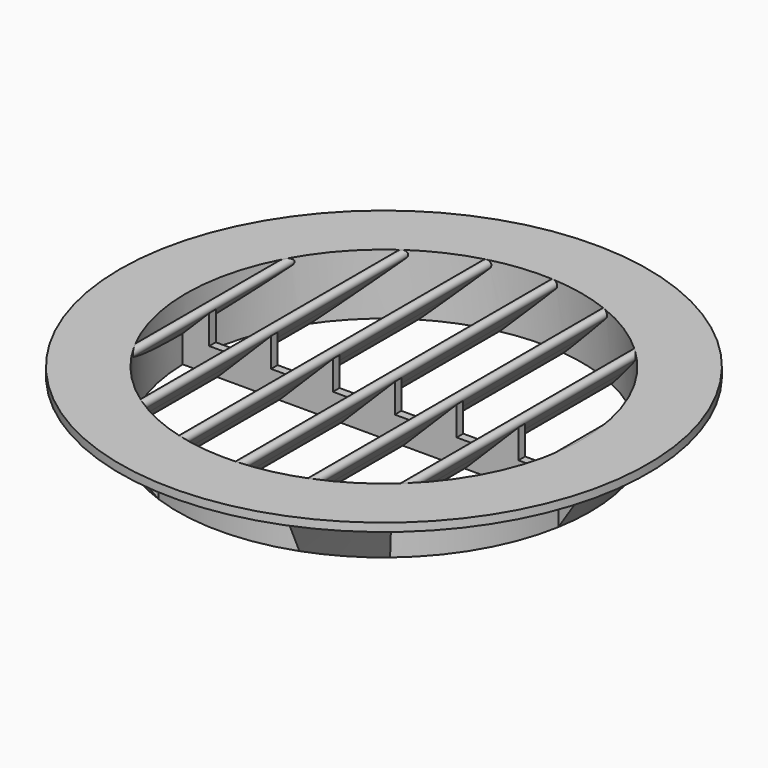
from build123d import *

# Parameters (mm, degrees)
F1_DEPTH      = 1
F2_DEPTH      = 100
F3_W          = 48
F3_H          = 14.7279220614
F8_ANGLE_BACK = 10
F8_ANGLE      = 20
F9_COUNT      = 6


with BuildPart() as f1:
    # F0 (on Front) → F1 (new body, symmetric)
    with BuildSketch(Plane.XZ):
        with BuildLine():
            ThreePointArc((-100, 0), (-100.9238795325, 0.6173165676), (-100.7071067812, 1.7071067812))
            Line((-100.7071067812, 1.7071067812), (-96.4142135624, 6))
            Line((-96.4142135624, 6), (-110.0245416164, 6))
            Line((-110.0245416164, 6), (-110.0245416164, 0))
            Line((-110.0245416164, 0), (-100, 0))
        make_face()
        with BuildLine():
            Line((-96.4142135624, 6), (-100.7071067812, 1.7071067812))
            ThreePointArc((-100.7071067812, 1.7071067812), (-100.9238795325, 0.6173165676), (-100, 0))
            ThreePointArc((-100, 0), (-99.6173165676, 0.0761204675), (-99.2928932188, 0.2928932188))
            Line((-99.2928932188, 0.2928932188), (-93.5857864376, 6))
            Line((-93.5857864376, 6), (-96.4142135624, 6))
        make_face()
        with BuildLine():
            ThreePointArc((-99.2928932188, 0.2928932188), (-99.6173165676, 0.0761204675), (-100, 0))
            Line((-100, 0), (-85, 0))
            ThreePointArc((-85, 0), (-85.9238795325, 0.6173165676), (-85.7071067812, 1.7071067812))
            Line((-85.7071067812, 1.7071067812), (-81.4142135624, 6))
            Line((-81.4142135624, 6), (-86.5649711575, 6))
            Line((-86.5649711575, 6), (-93.5857864376, 6))
            Line((-93.5857864376, 6), (-99.2928932188, 0.2928932188))
        make_face()
        with BuildLine():
            ThreePointArc((-85.7071067812, 1.7071067812), (-85.9238795325, 0.6173165676), (-85, 0))
            ThreePointArc((-85, 0), (-84.6173165676, 0.0761204675), (-84.2928932188, 0.2928932188))
            Line((-84.2928932188, 0.2928932188), (-78.5857864376, 6))
            Line((-78.5857864376, 6), (-81.4142135624, 6))
            Line((-81.4142135624, 6), (-85.7071067812, 1.7071067812))
        make_face()
        with BuildLine():
            ThreePointArc((-84.2928932188, 0.2928932188), (-84.6173165676, 0.0761204675), (-85, 0))
            Line((-85, 0), (-70, 0))
            ThreePointArc((-70, 0), (-70.9238795325, 0.6173165676), (-70.7071067812, 1.7071067812))
            Line((-70.7071067812, 1.7071067812), (-66.4142135624, 6))
            Line((-66.4142135624, 6), (-71.5649711575, 6))
            Line((-71.5649711575, 6), (-78.5857864376, 6))
            Line((-78.5857864376, 6), (-84.2928932188, 0.2928932188))
        make_face()
        with BuildLine():
            ThreePointArc((-70.7071067812, 1.7071067812), (-70.9238795325, 0.6173165676), (-70, 0))
            ThreePointArc((-70, 0), (-69.6173165676, 0.0761204675), (-69.2928932188, 0.2928932188))
            Line((-69.2928932188, 0.2928932188), (-63.5857864376, 6))
            Line((-63.5857864376, 6), (-66.4142135624, 6))
            Line((-66.4142135624, 6), (-70.7071067812, 1.7071067812))
        make_face()
        with BuildLine():
            ThreePointArc((-69.2928932188, 0.2928932188), (-69.6173165676, 0.0761204675), (-70, 0))
            Line((-70, 0), (-55, 0))
            ThreePointArc((-55, 0), (-55.9238795325, 0.6173165676), (-55.7071067812, 1.7071067812))
            Line((-55.7071067812, 1.7071067812), (-51.4142135624, 6))
            Line((-51.4142135624, 6), (-56.5649711575, 6))
            Line((-56.5649711575, 6), (-63.5857864376, 6))
            Line((-63.5857864376, 6), (-69.2928932188, 0.2928932188))
        make_face()
        with BuildLine():
            ThreePointArc((-55.7071067812, 1.7071067812), (-55.9238795325, 0.6173165676), (-55, 0))
            ThreePointArc((-55, 0), (-54.6173165676, 0.0761204675), (-54.2928932188, 0.2928932188))
            Line((-54.2928932188, 0.2928932188), (-48.5857864376, 6))
            Line((-48.5857864376, 6), (-51.4142135624, 6))
            Line((-51.4142135624, 6), (-55.7071067812, 1.7071067812))
        make_face()
        with BuildLine():
            ThreePointArc((-54.2928932188, 0.2928932188), (-54.6173165676, 0.0761204675), (-55, 0))
            Line((-55, 0), (-39.9999999915, 0))
            ThreePointArc((-39.9999999915, 0), (-40.9238795309, 0.6173165637), (-40.7071067812, 1.7071067812))
            Line((-40.7071067812, 1.7071067812), (-36.4142135624, 6))
            Line((-36.4142135624, 6), (-41.5649711575, 6))
            Line((-41.5649711575, 6), (-48.5857864376, 6))
            Line((-48.5857864376, 6), (-54.2928932188, 0.2928932188))
        make_face()
        with BuildLine():
            ThreePointArc((-40.7071067812, 1.7071067812), (-40.9238795309, 0.6173165637), (-39.9999999915, 0))
            ThreePointArc((-39.9999999915, 0), (-39.6173165637, 0.0761204691), (-39.2928932188, 0.2928932188))
            Line((-39.2928932188, 0.2928932188), (-33.5857864376, 6))
            Line((-33.5857864376, 6), (-36.4142135624, 6))
            Line((-36.4142135624, 6), (-40.7071067812, 1.7071067812))
        make_face()
        with BuildLine():
            ThreePointArc((-39.2928932188, 0.2928932188), (-39.6173165637, 0.0761204691), (-39.9999999915, 0))
            Line((-39.9999999915, 0), (-25.0000000006, 0))
            ThreePointArc((-25.0000000006, 0), (-25.9238795326, 0.6173165679), (-25.7071067812, 1.7071067812))
            Line((-25.7071067812, 1.7071067812), (-21.4142135624, 6))
            Line((-21.4142135624, 6), (-26.5649711575, 6))
            Line((-26.5649711575, 6), (-33.5857864376, 6))
            Line((-33.5857864376, 6), (-39.2928932188, 0.2928932188))
        make_face()
        with BuildLine():
            ThreePointArc((-24.2928932188, 0.2928932188), (-24.6173165679, 0.0761204674), (-25.0000000006, 0))
            Line((-25.0000000006, 0), (-10.0000000012, 0))
            ThreePointArc((-10.0000000012, 0), (-10.9238795327, 0.6173165682), (-10.7071067812, 1.7071067812))
            Line((-10.7071067812, 1.7071067812), (-6.4142135624, 6))
            Line((-6.4142135624, 6), (-11.5649711575, 6))
            Line((-11.5649711575, 6), (-18.5857864376, 6))
            Line((-18.5857864376, 6), (-24.2928932188, 0.2928932188))
        make_face()
        with BuildLine():
            ThreePointArc((-9.2928932188, 0.2928932188), (-9.6173165682, 0.0761204673), (-10.0000000012, 0))
            Line((-10.0000000012, 0), (4.9999999999, 0))
            ThreePointArc((4.9999999999, 0), (4.0761204675, 0.6173165677), (4.2928932188, 1.7071067812))
            Line((4.2928932188, 1.7071067812), (8.5857864376, 6))
            Line((8.5857864376, 6), (3.4350288425, 6))
            Line((3.4350288425, 6), (-3.5857864376, 6))
            Line((-3.5857864376, 6), (-9.2928932188, 0.2928932188))
        make_face()
        with BuildLine():
            ThreePointArc((-25.7071067812, 1.7071067812), (-25.9238795326, 0.6173165679), (-25.0000000006, 0))
            ThreePointArc((-25.0000000006, 0), (-24.6173165679, 0.0761204674), (-24.2928932188, 0.2928932188))
            Line((-24.2928932188, 0.2928932188), (-18.5857864376, 6))
            Line((-18.5857864376, 6), (-21.4142135624, 6))
            Line((-21.4142135624, 6), (-25.7071067812, 1.7071067812))
        make_face()
        with BuildLine():
            ThreePointArc((35.7071067812, 0.2928932188), (35.3826834226, 0.0761204635), (34.999999979, 0))
            Line((34.999999979, 0), (120.5326914787, 0))
            Line((120.5326914787, 0), (120.5326914787, 6))
            Line((120.5326914787, 6), (48.4350288425, 6))
            Line((48.4350288425, 6), (41.4142135624, 6))
            Line((41.4142135624, 6), (35.7071067812, 0.2928932188))
        make_face()
        with BuildLine():
            ThreePointArc((-10.7071067812, 1.7071067812), (-10.9238795327, 0.6173165682), (-10.0000000012, 0))
            ThreePointArc((-10.0000000012, 0), (-9.6173165682, 0.0761204673), (-9.2928932188, 0.2928932188))
            Line((-9.2928932188, 0.2928932188), (-3.5857864376, 6))
            Line((-3.5857864376, 6), (-6.4142135624, 6))
            Line((-6.4142135624, 6), (-10.7071067812, 1.7071067812))
        make_face()
        with BuildLine():
            ThreePointArc((5.7071067812, 0.2928932188), (5.3826834323, 0.0761204675), (4.9999999999, 0))
            Line((4.9999999999, 0), (19.9999999989, 0))
            ThreePointArc((19.9999999989, 0), (19.0761204673, 0.6173165682), (19.2928932188, 1.7071067812))
            Line((19.2928932188, 1.7071067812), (23.5857864376, 6))
            Line((23.5857864376, 6), (18.4350288425, 6))
            Line((18.4350288425, 6), (11.4142135624, 6))
            Line((11.4142135624, 6), (5.7071067812, 0.2928932188))
        make_face()
        with BuildLine():
            ThreePointArc((4.2928932188, 1.7071067812), (4.0761204675, 0.6173165677), (4.9999999999, 0))
            ThreePointArc((4.9999999999, 0), (5.3826834323, 0.0761204675), (5.7071067812, 0.2928932188))
            Line((5.7071067812, 0.2928932188), (11.4142135624, 6))
            Line((11.4142135624, 6), (8.5857864376, 6))
            Line((8.5857864376, 6), (4.2928932188, 1.7071067812))
        make_face()
        with BuildLine():
            ThreePointArc((34.2928932188, 1.7071067812), (34.0761204635, 0.6173165774), (34.999999979, 0))
            ThreePointArc((34.999999979, 0), (35.3826834226, 0.0761204635), (35.7071067812, 0.2928932188))
            Line((35.7071067812, 0.2928932188), (41.4142135624, 6))
            Line((41.4142135624, 6), (38.5857864376, 6))
            Line((38.5857864376, 6), (34.2928932188, 1.7071067812))
        make_face()
        with BuildLine():
            ThreePointArc((20.7071067812, 0.2928932188), (20.3826834318, 0.0761204673), (19.9999999989, 0))
            Line((19.9999999989, 0), (34.999999979, 0))
            ThreePointArc((34.999999979, 0), (34.0761204635, 0.6173165774), (34.2928932188, 1.7071067812))
            Line((34.2928932188, 1.7071067812), (38.5857864376, 6))
            Line((38.5857864376, 6), (33.4350288425, 6))
            Line((33.4350288425, 6), (26.4142135624, 6))
            Line((26.4142135624, 6), (20.7071067812, 0.2928932188))
        make_face()
        with BuildLine():
            ThreePointArc((19.2928932188, 1.7071067812), (19.0761204673, 0.6173165682), (19.9999999989, 0))
            ThreePointArc((19.9999999989, 0), (20.3826834318, 0.0761204673), (20.7071067812, 0.2928932188))
            Line((20.7071067812, 0.2928932188), (26.4142135624, 6))
            Line((26.4142135624, 6), (23.5857864376, 6))
            Line((23.5857864376, 6), (19.2928932188, 1.7071067812))
        make_face()
        Polygon((48.4350288425, 13.0208152802), (41.4142135624, 6), (48.4350288425, 6), align=None)
        Polygon((33.4350288425, 13.0208152802), (26.4142135624, 6), (33.4350288425, 6), align=None)
        Polygon((18.4350288425, 13.0208152802), (11.4142135624, 6), (18.4350288425, 6), align=None)
        Polygon((3.4350288425, 13.0208152802), (-3.5857864376, 6), (3.4350288425, 6), align=None)
        Polygon((-11.5649711575, 13.0208152802), (-18.5857864376, 6), (-11.5649711575, 6), align=None)
        Polygon((-26.5649711575, 13.0208152802), (-33.5857864376, 6), (-26.5649711575, 6), align=None)
        Polygon((-41.5649711575, 13.0208152802), (-48.5857864376, 6), (-41.5649711575, 6), align=None)
        Polygon((-56.5649711575, 13.0208152802), (-63.5857864376, 6), (-56.5649711575, 6), align=None)
        Polygon((-71.5649711575, 13.0208152802), (-78.5857864376, 6), (-71.5649711575, 6), align=None)
        Polygon((-86.5649711575, 13.0208152802), (-93.5857864376, 6), (-86.5649711575, 6), align=None)
    extrude(amount=F1_DEPTH, both=True)

    # F0 (on Front) → F2 (join, symmetric)
    with BuildSketch(Plane.XZ):
        with BuildLine():
            Line((-87.9791847198, 14.4350288425), (-96.4142135624, 6))
            Line((-96.4142135624, 6), (-93.5857864376, 6))
            Line((-93.5857864376, 6), (-86.5649711575, 13.0208152802))
            ThreePointArc((-86.5649711575, 13.0208152802), (-86.5649711575, 14.4350288425), (-87.9791847198, 14.4350288425))
        make_face()
        with BuildLine():
            Line((-72.9791847198, 14.4350288425), (-81.4142135624, 6))
            Line((-81.4142135624, 6), (-78.5857864376, 6))
            Line((-78.5857864376, 6), (-71.5649711575, 13.0208152802))
            ThreePointArc((-71.5649711575, 13.0208152802), (-71.5649711575, 14.4350288425), (-72.9791847198, 14.4350288425))
        make_face()
        with BuildLine():
            Line((-96.4142135624, 6), (-100.7071067812, 1.7071067812))
            ThreePointArc((-100.7071067812, 1.7071067812), (-100.9238795325, 0.6173165676), (-100, 0))
            ThreePointArc((-100, 0), (-99.6173165676, 0.0761204675), (-99.2928932188, 0.2928932188))
            Line((-99.2928932188, 0.2928932188), (-93.5857864376, 6))
            Line((-93.5857864376, 6), (-96.4142135624, 6))
        make_face()
        with BuildLine():
            ThreePointArc((-85.7071067812, 1.7071067812), (-85.9238795325, 0.6173165676), (-85, 0))
            ThreePointArc((-85, 0), (-84.6173165676, 0.0761204675), (-84.2928932188, 0.2928932188))
            Line((-84.2928932188, 0.2928932188), (-78.5857864376, 6))
            Line((-78.5857864376, 6), (-81.4142135624, 6))
            Line((-81.4142135624, 6), (-85.7071067812, 1.7071067812))
        make_face()
        with BuildLine():
            ThreePointArc((-70.7071067812, 1.7071067812), (-70.9238795325, 0.6173165676), (-70, 0))
            ThreePointArc((-70, 0), (-69.6173165676, 0.0761204675), (-69.2928932188, 0.2928932188))
            Line((-69.2928932188, 0.2928932188), (-63.5857864376, 6))
            Line((-63.5857864376, 6), (-66.4142135624, 6))
            Line((-66.4142135624, 6), (-70.7071067812, 1.7071067812))
        make_face()
        with BuildLine():
            Line((-57.9791847198, 14.4350288425), (-66.4142135624, 6))
            Line((-66.4142135624, 6), (-63.5857864376, 6))
            Line((-63.5857864376, 6), (-56.5649711575, 13.0208152802))
            ThreePointArc((-56.5649711575, 13.0208152802), (-56.5649711575, 14.4350288425), (-57.9791847198, 14.4350288425))
        make_face()
        with BuildLine():
            Line((-42.9791847198, 14.4350288425), (-51.4142135624, 6))
            Line((-51.4142135624, 6), (-48.5857864376, 6))
            Line((-48.5857864376, 6), (-41.5649711575, 13.0208152802))
            ThreePointArc((-41.5649711575, 13.0208152802), (-41.5649711575, 14.4350288425), (-42.9791847198, 14.4350288425))
        make_face()
        with BuildLine():
            ThreePointArc((-55.7071067812, 1.7071067812), (-55.9238795325, 0.6173165676), (-55, 0))
            ThreePointArc((-55, 0), (-54.6173165676, 0.0761204675), (-54.2928932188, 0.2928932188))
            Line((-54.2928932188, 0.2928932188), (-48.5857864376, 6))
            Line((-48.5857864376, 6), (-51.4142135624, 6))
            Line((-51.4142135624, 6), (-55.7071067812, 1.7071067812))
        make_face()
        with BuildLine():
            Line((-27.9791847198, 14.4350288425), (-36.4142135624, 6))
            Line((-36.4142135624, 6), (-33.5857864376, 6))
            Line((-33.5857864376, 6), (-26.5649711575, 13.0208152802))
            ThreePointArc((-26.5649711575, 13.0208152802), (-26.5649711575, 14.4350288425), (-27.9791847198, 14.4350288425))
        make_face()
        with BuildLine():
            ThreePointArc((-40.7071067812, 1.7071067812), (-40.9238795309, 0.6173165637), (-39.9999999915, 0))
            ThreePointArc((-39.9999999915, 0), (-39.6173165637, 0.0761204691), (-39.2928932188, 0.2928932188))
            Line((-39.2928932188, 0.2928932188), (-33.5857864376, 6))
            Line((-33.5857864376, 6), (-36.4142135624, 6))
            Line((-36.4142135624, 6), (-40.7071067812, 1.7071067812))
        make_face()
        with BuildLine():
            Line((-12.9791847198, 14.4350288425), (-21.4142135624, 6))
            Line((-21.4142135624, 6), (-18.5857864376, 6))
            Line((-18.5857864376, 6), (-11.5649711575, 13.0208152802))
            ThreePointArc((-11.5649711575, 13.0208152802), (-11.5649711575, 14.4350288425), (-12.9791847198, 14.4350288425))
        make_face()
        with BuildLine():
            ThreePointArc((-25.7071067812, 1.7071067812), (-25.9238795326, 0.6173165679), (-25.0000000006, 0))
            ThreePointArc((-25.0000000006, 0), (-24.6173165679, 0.0761204674), (-24.2928932188, 0.2928932188))
            Line((-24.2928932188, 0.2928932188), (-18.5857864376, 6))
            Line((-18.5857864376, 6), (-21.4142135624, 6))
            Line((-21.4142135624, 6), (-25.7071067812, 1.7071067812))
        make_face()
        with BuildLine():
            Line((2.0208152802, 14.4350288425), (-6.4142135624, 6))
            Line((-6.4142135624, 6), (-3.5857864376, 6))
            Line((-3.5857864376, 6), (3.4350288425, 13.0208152802))
            ThreePointArc((3.4350288425, 13.0208152802), (3.4350288425, 14.4350288425), (2.0208152802, 14.4350288425))
        make_face()
        with BuildLine():
            ThreePointArc((-10.7071067812, 1.7071067812), (-10.9238795327, 0.6173165682), (-10.0000000012, 0))
            ThreePointArc((-10.0000000012, 0), (-9.6173165682, 0.0761204673), (-9.2928932188, 0.2928932188))
            Line((-9.2928932188, 0.2928932188), (-3.5857864376, 6))
            Line((-3.5857864376, 6), (-6.4142135624, 6))
            Line((-6.4142135624, 6), (-10.7071067812, 1.7071067812))
        make_face()
        with BuildLine():
            Line((17.0208152802, 14.4350288425), (8.5857864376, 6))
            Line((8.5857864376, 6), (11.4142135624, 6))
            Line((11.4142135624, 6), (18.4350288425, 13.0208152802))
            ThreePointArc((18.4350288425, 13.0208152802), (18.4350288425, 14.4350288425), (17.0208152802, 14.4350288425))
        make_face()
        with BuildLine():
            ThreePointArc((4.2928932188, 1.7071067812), (4.0761204675, 0.6173165677), (4.9999999999, 0))
            ThreePointArc((4.9999999999, 0), (5.3826834323, 0.0761204675), (5.7071067812, 0.2928932188))
            Line((5.7071067812, 0.2928932188), (11.4142135624, 6))
            Line((11.4142135624, 6), (8.5857864376, 6))
            Line((8.5857864376, 6), (4.2928932188, 1.7071067812))
        make_face()
        with BuildLine():
            Line((47.0208152802, 14.4350288425), (38.5857864376, 6))
            Line((38.5857864376, 6), (41.4142135624, 6))
            Line((41.4142135624, 6), (48.4350288425, 13.0208152802))
            ThreePointArc((48.4350288425, 13.0208152802), (48.4350288425, 14.4350288425), (47.0208152802, 14.4350288425))
        make_face()
        with BuildLine():
            ThreePointArc((34.2928932188, 1.7071067812), (34.0761204635, 0.6173165774), (34.999999979, 0))
            ThreePointArc((34.999999979, 0), (35.3826834226, 0.0761204635), (35.7071067812, 0.2928932188))
            Line((35.7071067812, 0.2928932188), (41.4142135624, 6))
            Line((41.4142135624, 6), (38.5857864376, 6))
            Line((38.5857864376, 6), (34.2928932188, 1.7071067812))
        make_face()
        with BuildLine():
            Line((32.0208152802, 14.4350288425), (23.5857864376, 6))
            Line((23.5857864376, 6), (26.4142135624, 6))
            Line((26.4142135624, 6), (33.4350288425, 13.0208152802))
            ThreePointArc((33.4350288425, 13.0208152802), (33.4350288425, 14.4350288425), (32.0208152802, 14.4350288425))
        make_face()
        with BuildLine():
            ThreePointArc((19.2928932188, 1.7071067812), (19.0761204673, 0.6173165682), (19.9999999989, 0))
            ThreePointArc((19.9999999989, 0), (20.3826834318, 0.0761204673), (20.7071067812, 0.2928932188))
            Line((20.7071067812, 0.2928932188), (26.4142135624, 6))
            Line((26.4142135624, 6), (23.5857864376, 6))
            Line((23.5857864376, 6), (19.2928932188, 1.7071067812))
        make_face()
    extrude(amount=F2_DEPTH, both=True)


with BuildPart() as f4:
    # F3 (on Front) → F4 (revolve)
    with BuildSketch(Plane.XZ):
        with Locations((-24, 7.3639610307)):
            Rectangle(F3_W, F3_H)
    revolve(axis=Axis((0, 0, 7.3639610307), (0, 0, 1)))


with BuildPart() as f5:
    # F3 (on Front) → F5 (revolve)
    with BuildSketch(Plane.XZ):
        Polygon((-50, 0), (-48, 0), (-48, 14.7279220614), (-64, 14.7279220614), (-64, 12.7279220614), (-50, 12.7279220614), align=None)
    revolve(axis=Axis((0, 0, 7.3639610307), (0, 0, 1)))

    # F7 (on Front) → F8 (revolve)
    with BuildSketch(Plane.XZ, mode=Mode.PRIVATE) as f8_sk:
        Polygon((-57.3740684521, 10.5312611614), (-50, 0), (-50, 3.4868935912), (-55.7357643635, 11.6784140341), align=None)
    revolve(f8_sk.sketch.rotate(Axis((0, 0, 7.3639610307), (0, 0, 1)), -F8_ANGLE_BACK), axis=Axis((0, 0, 7.3639610307), (0, 0, 1)), revolution_arc=F8_ANGLE)


with BuildPart() as f1_1:
    add(f1.part)

    # F6: intersect F4
    add(f4.part, mode=Mode.INTERSECT)


    add(f5.part)  # F9 merges F5
    # F9: F5 ×6 about axis
    f9_axis = Axis((0, 0, 7.3639610307), (0, 0, 1))
    for i in range(1, F9_COUNT):
        add(f5.part.rotate(f9_axis, i * 360 / F9_COUNT))


solid = f1_1.part
